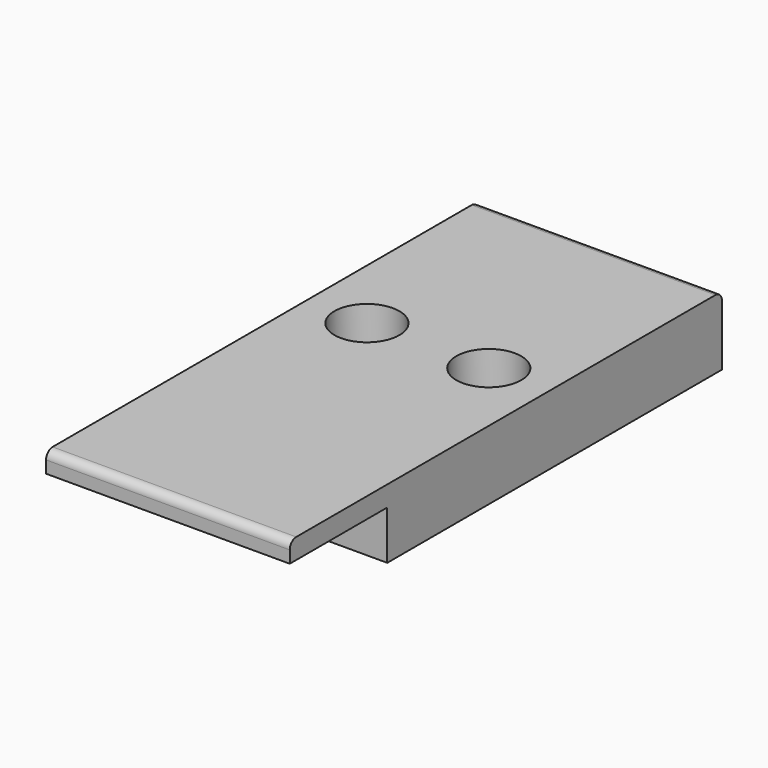
from build123d import *

# Parameters (mm, degrees)
SKETCH_W        = 30
SKETCH_H        = 66.5
SKETCH_R        = 1.6
PAD_DEPTH       = 8.5
SKETCH001_R     = 4
POCKET_DEPTH    = 5
FILLET_R        = 1
SKETCH002_W     = 55.163057
SKETCH002_H     = 21.780855
POCKET001_DEPTH = 6


with BuildPart() as part:
    # Sketch → Pad (new body)
    with BuildSketch(Plane.XY):
        with Locations((15, 33.25)):
            Rectangle(SKETCH_W, SKETCH_H)
        with Locations((7.5, 40)):
            Circle(SKETCH_R, mode=Mode.SUBTRACT)
        with Locations((22.5, 40)):
            Circle(SKETCH_R, mode=Mode.SUBTRACT)
    extrude(amount=PAD_DEPTH)

    # Sketch001 (on Face8 of Pad) → Pocket (cut)
    with BuildSketch(Plane.XY.offset(8.5)):
        with Locations((7.5, 40)):
            Circle(SKETCH001_R)
        with Locations((22.5, 40)):
            Circle(SKETCH001_R)
    extrude(amount=-POCKET_DEPTH, mode=Mode.SUBTRACT)

    # Fillet
    fillet_edges = [part.edges().sort_by_distance(p)[0] for p in [
        (15, 66.5, 8.5),
        (15, 0, 8.5),
    ]]
    fillet(fillet_edges, radius=FILLET_R)

    # Sketch002 (on Face4 of Fillet) → Pocket001 (cut)
    with BuildSketch(Plane(origin=(0, 0, 0), x_dir=(1, 0, 0), z_dir=(0, 0, -1))):
        with Locations((18.565501, -4.109573)):
            Rectangle(SKETCH002_W, SKETCH002_H)
    extrude(amount=-POCKET001_DEPTH, mode=Mode.SUBTRACT)


solid = part.part
